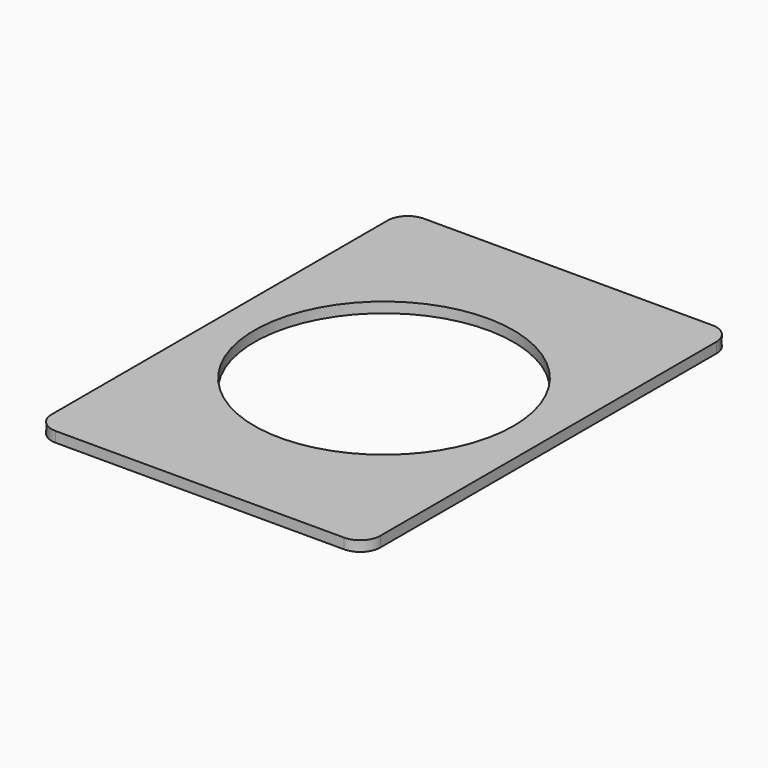
from build123d import *

# Parameters (mm, degrees)
F0_R     = 25
F1_DEPTH = 2


with BuildPart() as f1:
    # F0 (on Top) → F1 (new body)
    with BuildSketch(Plane.XY):
        with BuildLine():
            Line((31.70578804, -40.5199971151), (31.70578804, 40.5199971151))
            add(Edge.make_bspline(
                [(27.8376818991, 44.388103256), (29.9651402766, 44.388103256), (31.70578804, 42.6474554926), (31.70578804, 40.5199971151)],
                knots=[0, 0, 0, 0, 1, 1, 1, 1], degree=3))
            Line((27.8376818991, 44.388103256), (-27.8373296126, 44.388103256))
            add(Edge.make_bspline(
                [(-31.70578804, 40.5199971151), (-31.70578804, 42.6474554926), (-29.9651402766, 44.388103256), (-27.8373296126, 44.388103256)],
                knots=[0, 0, 0, 0, 1, 1, 1, 1], degree=3))
            Line((-31.70578804, 40.5199971151), (-31.70578804, -40.5199971151))
            add(Edge.make_bspline(
                [(-27.8373296126, -44.388103256), (-29.9651402766, -44.388103256), (-31.70578804, -42.6474554926), (-31.70578804, -40.5199971151)],
                knots=[0, 0, 0, 0, 1, 1, 1, 1], degree=3))
            Line((-27.8373296126, -44.388103256), (27.8376818991, -44.388103256))
            add(Edge.make_bspline(
                [(31.70578804, -40.5199971151), (31.70578804, -42.6474554926), (29.9651402766, -44.388103256), (27.8376818991, -44.388103256)],
                knots=[0, 0, 0, 0, 1, 1, 1, 1], degree=3))
        make_face()
        Circle(F0_R, mode=Mode.SUBTRACT)
    extrude(amount=F1_DEPTH)


solid = f1.part
